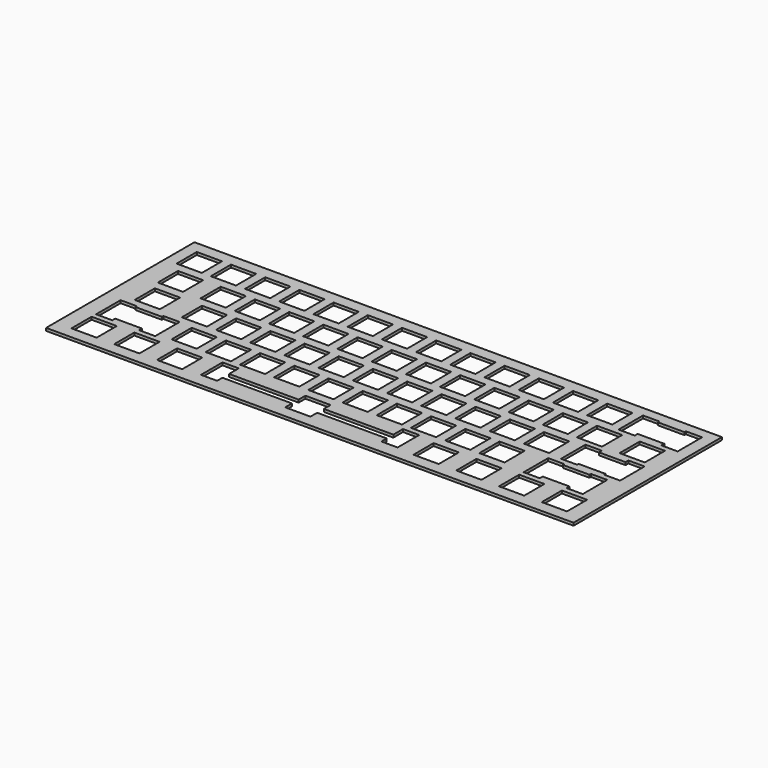
from build123d import *

# Parameters (mm, degrees)
SKETCH_W        = 293
SKETCH_H        = 103
PAD_DEPTH       = 1.5
SKETCH001_W     = 14
SKETCH001_H     = 14
POCKET_DEPTH    = 1.5
SKETCH002_W     = 14
SKETCH002_H     = 14
POCKET001_DEPTH = 1.5
SKETCH003_W     = 14
SKETCH003_H     = 14
POCKET002_DEPTH = 1.5
SKETCH004_W     = 14
SKETCH004_H     = 14
POCKET003_DEPTH = 1.5
SKETCH005_W     = 14
SKETCH005_H     = 14
POCKET004_DEPTH = 1.5
SKETCH007_W     = 9
SKETCH007_H     = 17
SKETCH007_H_2   = 15
POCKET005_DEPTH = 1.501
SKETCH008_W     = 0.405
SKETCH008_H     = 14
SKETCH008_W_2   = 38.62
SKETCH008_H_2   = 4.6
POCKET006_DEPTH = 1.501


with BuildPart() as part:
    # Sketch → Pad (new body)
    with BuildSketch(Plane.XY):
        Rectangle(SKETCH_W, SKETCH_H)
    extrude(amount=PAD_DEPTH)

    # Sketch001 (on Face6 of Pad) → Pocket (cut)
    with BuildSketch(Plane.XY.offset(1.5)):
        with Locations((-133, 38)):
            Rectangle(SKETCH001_W, SKETCH001_H)
        with Locations((-114, 38)):
            Rectangle(SKETCH001_W, SKETCH001_H)
        with Locations((-95, 38)):
            Rectangle(SKETCH001_W, SKETCH001_H)
        with Locations((-76, 38)):
            Rectangle(SKETCH001_W, SKETCH001_H)
        with Locations((-57, 38)):
            Rectangle(SKETCH001_W, SKETCH001_H)
        with Locations((-38, 38)):
            Rectangle(SKETCH001_W, SKETCH001_H)
        with Locations((-19, 38)):
            Rectangle(SKETCH001_W, SKETCH001_H)
        with Locations((0, 38)):
            Rectangle(SKETCH001_W, SKETCH001_H)
        with Locations((19, 38)):
            Rectangle(SKETCH001_W, SKETCH001_H)
        with Locations((38, 38)):
            Rectangle(SKETCH001_W, SKETCH001_H)
        with Locations((57, 38)):
            Rectangle(SKETCH001_W, SKETCH001_H)
        with Locations((76, 38)):
            Rectangle(SKETCH001_W, SKETCH001_H)
        with Locations((95, 38)):
            Rectangle(SKETCH001_W, SKETCH001_H)
        with Locations((123.5, 38)):
            Rectangle(SKETCH001_W, SKETCH001_H)
    extrude(amount=-POCKET_DEPTH, mode=Mode.SUBTRACT)

    # Sketch002 (on Face5 of Pocket) → Pocket001 (cut)
    with BuildSketch(Plane.XY.offset(1.5)):
        with Locations((-128.25, 19)):
            Rectangle(SKETCH002_W, SKETCH002_H)
        with Locations((-104.5, 19)):
            Rectangle(SKETCH002_W, SKETCH002_H)
        with Locations((-85.5, 19)):
            Rectangle(SKETCH002_W, SKETCH002_H)
        with Locations((-66.5, 19)):
            Rectangle(SKETCH002_W, SKETCH002_H)
        with Locations((-47.5, 19)):
            Rectangle(SKETCH002_W, SKETCH002_H)
        with Locations((-28.5, 19)):
            Rectangle(SKETCH002_W, SKETCH002_H)
        with Locations((-9.5, 19)):
            Rectangle(SKETCH002_W, SKETCH002_H)
        with Locations((9.5, 19)):
            Rectangle(SKETCH002_W, SKETCH002_H)
        with Locations((28.5, 19)):
            Rectangle(SKETCH002_W, SKETCH002_H)
        with Locations((47.5, 19)):
            Rectangle(SKETCH002_W, SKETCH002_H)
        with Locations((66.5, 19)):
            Rectangle(SKETCH002_W, SKETCH002_H)
        with Locations((85.5, 19)):
            Rectangle(SKETCH002_W, SKETCH002_H)
        with Locations((104.5, 19)):
            Rectangle(SKETCH002_W, SKETCH002_H)
        with Locations((128.25, 19)):
            Rectangle(SKETCH002_W, SKETCH002_H)
    extrude(amount=-POCKET001_DEPTH, mode=Mode.SUBTRACT)

    # Sketch003 (on Face5 of Pocket001) → Pocket002 (cut)
    with BuildSketch(Plane.XY.offset(1.5)):
        with Locations((-125.87, 0)):
            Rectangle(SKETCH003_W, SKETCH003_H)
        with Locations((-99.74, 0)):
            Rectangle(SKETCH003_W, SKETCH003_H)
        with Locations((-80.74, 0)):
            Rectangle(SKETCH003_W, SKETCH003_H)
        with Locations((-61.74, 0)):
            Rectangle(SKETCH003_W, SKETCH003_H)
        with Locations((-42.74, 0)):
            Rectangle(SKETCH003_W, SKETCH003_H)
        with Locations((-23.74, 0)):
            Rectangle(SKETCH003_W, SKETCH003_H)
        with Locations((-4.74, 0)):
            Rectangle(SKETCH003_W, SKETCH003_H)
        with Locations((14.26, 0)):
            Rectangle(SKETCH003_W, SKETCH003_H)
        with Locations((33.26, 0)):
            Rectangle(SKETCH003_W, SKETCH003_H)
        with Locations((52.26, 0)):
            Rectangle(SKETCH003_W, SKETCH003_H)
        with Locations((71.26, 0)):
            Rectangle(SKETCH003_W, SKETCH003_H)
        with Locations((90.26, 0)):
            Rectangle(SKETCH003_W, SKETCH003_H)
        with Locations((121.13, 0)):
            Rectangle(SKETCH003_W, SKETCH003_H)
    extrude(amount=-POCKET002_DEPTH, mode=Mode.SUBTRACT)

    # Sketch004 (on Face5 of Pocket002) → Pocket003 (cut)
    with BuildSketch(Plane.XY.offset(1.5)):
        with Locations((-121.12, -19)):
            Rectangle(SKETCH004_W, SKETCH004_H)
        with Locations((-90.24, -19)):
            Rectangle(SKETCH004_W, SKETCH004_H)
        with Locations((-71.24, -19)):
            Rectangle(SKETCH004_W, SKETCH004_H)
        with Locations((-52.24, -19)):
            Rectangle(SKETCH004_W, SKETCH004_H)
        with Locations((-33.24, -19)):
            Rectangle(SKETCH004_W, SKETCH004_H)
        with Locations((-14.24, -19)):
            Rectangle(SKETCH004_W, SKETCH004_H)
        with Locations((4.76, -19)):
            Rectangle(SKETCH004_W, SKETCH004_H)
        with Locations((23.76, -19)):
            Rectangle(SKETCH004_W, SKETCH004_H)
        with Locations((42.76, -19)):
            Rectangle(SKETCH004_W, SKETCH004_H)
        with Locations((61.76, -19)):
            Rectangle(SKETCH004_W, SKETCH004_H)
        with Locations((80.76, -19)):
            Rectangle(SKETCH004_W, SKETCH004_H)
        with Locations((116.38, -19)):
            Rectangle(SKETCH004_W, SKETCH004_H)
    extrude(amount=-POCKET003_DEPTH, mode=Mode.SUBTRACT)

    # Sketch005 (on Face5 of Pocket003) → Pocket004 (cut)
    with BuildSketch(Plane.XY.offset(1.5)):
        with Locations((-130.62, -38)):
            Rectangle(SKETCH005_W, SKETCH005_H)
        with Locations((-106.87, -38)):
            Rectangle(SKETCH005_W, SKETCH005_H)
        with Locations((-83.12, -38)):
            Rectangle(SKETCH005_W, SKETCH005_H)
        with Locations((-11.87, -38)):
            Rectangle(SKETCH005_W, SKETCH005_H)
        with Locations((59.38, -38)):
            Rectangle(SKETCH005_W, SKETCH005_H)
        with Locations((83.13, -38)):
            Rectangle(SKETCH005_W, SKETCH005_H)
        with Locations((106.88, -38)):
            Rectangle(SKETCH005_W, SKETCH005_H)
        with Locations((130.63, -38)):
            Rectangle(SKETCH005_W, SKETCH005_H)
    extrude(amount=-POCKET004_DEPTH, mode=Mode.SUBTRACT)

    # Sketch007 (on Face5 of Pocket004) → Pocket005 (cut, through all)
    with BuildSketch(Plane.XY.offset(1.5)):
        with Locations((-133.025, -19.5)):
            Rectangle(SKETCH007_W, SKETCH007_H)
        with Locations((-109.215, -19.5)):
            Rectangle(SKETCH007_W, SKETCH007_H)
        with Locations((-61.99, -36.5)):
            Rectangle(SKETCH007_W, SKETCH007_H_2)
        with Locations((38.25, -36.5)):
            Rectangle(SKETCH007_W, SKETCH007_H_2)
        with Locations((128.285, -19.5)):
            Rectangle(SKETCH007_W, SKETCH007_H)
        with Locations((104.475, -19.5)):
            Rectangle(SKETCH007_W, SKETCH007_H)
        with Locations((109.225, 0.5)):
            Rectangle(SKETCH007_W, SKETCH007_H)
        with Locations((133.035, 0.5)):
            Rectangle(SKETCH007_W, SKETCH007_H)
        with Locations((111.595, 37.5)):
            Rectangle(SKETCH007_W, SKETCH007_H)
        with Locations((135.405, 37.5)):
            Rectangle(SKETCH007_W, SKETCH007_H)
    extrude(amount=-POCKET005_DEPTH, mode=Mode.SUBTRACT)

    # Sketch008 (on Face5 of Pocket005) → Pocket006 (cut, through all)
    with BuildSketch(Plane.XY.offset(1.5)):
        with Locations((-128.3225, -19)):
            Rectangle(SKETCH008_W, SKETCH008_H)
        with Locations((-113.9175, -19)):
            Rectangle(SKETCH008_W, SKETCH008_H)
        with Locations((109.1775, -19)):
            Rectangle(SKETCH008_W, SKETCH008_H)
        with Locations((123.5825, -19)):
            Rectangle(SKETCH008_W, SKETCH008_H)
        with Locations((113.9275, 0)):
            Rectangle(SKETCH008_W, SKETCH008_H)
        with Locations((128.3325, 0)):
            Rectangle(SKETCH008_W, SKETCH008_H)
        with Locations((116.2975, 38)):
            Rectangle(SKETCH008_W, SKETCH008_H)
        with Locations((130.7025, 38)):
            Rectangle(SKETCH008_W, SKETCH008_H)
        with Locations((-38.18, -38)):
            Rectangle(SKETCH008_W_2, SKETCH008_H_2)
        with Locations((14.44, -38)):
            Rectangle(SKETCH008_W_2, SKETCH008_H_2)
    extrude(amount=-POCKET006_DEPTH, mode=Mode.SUBTRACT)


solid = part.part
